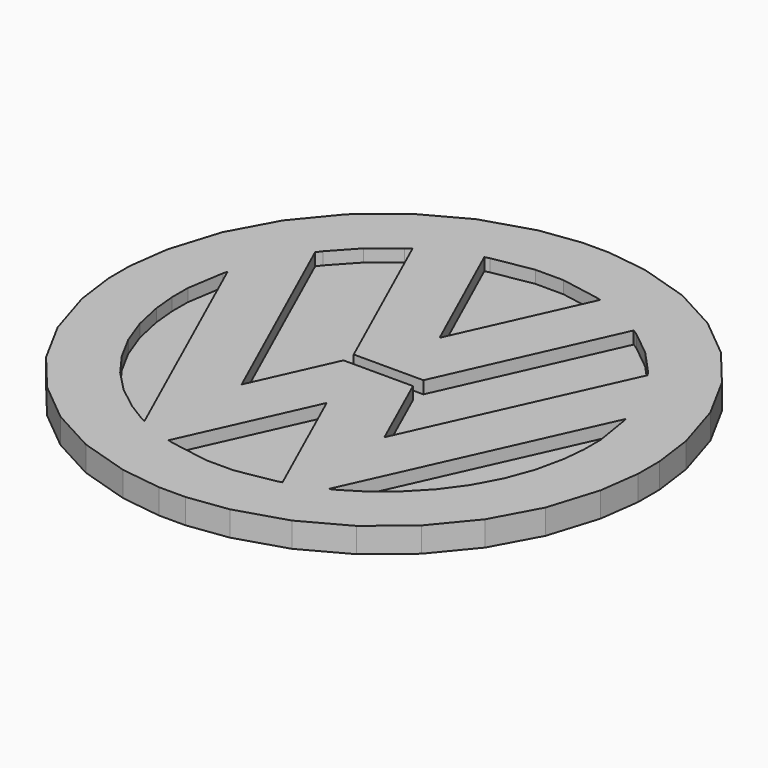
from build123d import *

# Parameters (mm, degrees)
F1_DEPTH = 4
F2_DEPTH = 2


with BuildPart() as f1:
    # F0 (on Top) → F1 (new body)
    with BuildSketch(Plane.XY):
        Polygon((-2.15507, -42.513097), (-0.012324, -42.513097), (2.128266, -42.513097), (8.551832, -41.649458), (16.529186, -39.171592), (23.748692, -35.252986), (30.037865, -30.063322), (35.227457, -23.774077), (39.146422, -16.554931), (41.624073, -8.575349), (42.487568, -2.151782), (42.487568, -0.011192), (42.487568, 2.131554), (41.624073, 8.553324), (39.146422, 16.530678), (35.227457, 23.749824), (30.037865, 30.039356), (23.748692, 35.228948), (16.529186, 39.147554), (8.551832, 41.625565), (2.128266, 42.486903), (-0.012324, 42.486903), (-2.15507, 42.486903), (-8.578637, 41.625565), (-16.556206, 39.147554), (-23.775352, 35.228948), (-30.064598, 30.039356), (-35.254262, 23.749824), (-39.172867, 16.530678), (-41.650734, 8.553324), (-42.512432, 2.131554), (-42.512432, -0.011192), (-42.512432, -2.151782), (-41.650734, -8.575349), (-39.172867, -16.554931), (-35.254262, -23.774077), (-30.064598, -30.063322), (-23.775352, -35.252986), (-16.556206, -39.171592), (-8.578637, -41.649458), align=None)
        Polygon((-32.156461, 7.865187), (-31.973198, 8.547215), (-14.778227, -29.622735), (-15.790021, -29.11779), (-18.683142, -27.324179), (-22.221601, -24.528584), (-25.344771, -21.286472), (-28.007842, -17.644702), (-30.162087, -13.646215), (-31.758743, -9.343618), (-32.751061, -4.78359), (-33.092255, -1.204202), (-33.092255, -0.011192), (-33.092255, 1.957992), align=None, mode=Mode.SUBTRACT)
        Polygon((-8.438135, -32.020684), (-9.163643, -31.812051), (-0.012324, -11.515471), (9.128933, -31.813992), (8.401628, -32.022625), (2.272361, -33.09292), (-0.012324, -33.09292), (-2.119855, -33.09292), align=None, mode=Mode.SUBTRACT)
        Polygon((15.763073, -29.11779), (14.753686, -29.622735), (31.967882, 8.475347), (32.147192, 7.798709), (33.065307, 2.112149), (33.065307, -0.011192), (33.065307, -1.204202), (32.722496, -4.78359), (31.730358, -9.343618), (30.13345, -13.646215), (27.979205, -17.644702), (25.31829, -21.286472), (22.194904, -24.528584), (18.656481, -27.324179), align=None, mode=Mode.SUBTRACT)
        Polygon((-0.012324, 11.140574), (-9.317441, 31.741192), (-8.580434, 31.957874), (-2.15507, 33.064642), (-0.012324, 33.064642), (2.311529, 33.064642), (8.543927, 31.959311), (9.28309, 31.743348), align=None, mode=Mode.SUBTRACT)
        Polygon((5.602367, 0.876019), (17.744116, 27.900922), (18.615516, 27.344664), (22.618207, 24.112757), (26.095902, 20.326748), (26.706062, 19.494157), (11.45099, -14.266185), (5.565355, -1.175095), (-5.590004, -1.175095), (-11.475638, -14.266185), (-26.707461, 19.523263), (-26.101182, 20.354058), (-22.630997, 24.126053), (-18.640272, 27.34682), (-17.770777, 27.900922), (-5.590004, 0.876019), align=None, mode=Mode.SUBTRACT)
    extrude(amount=F1_DEPTH)

    # F0 (on Top) → F2 (join)
    with BuildSketch(Plane.XY):
        Polygon((18.615516, 27.344664), (17.744116, 27.900922), (5.602367, 0.876019), (-5.590004, 0.876019), (-17.770777, 27.900922), (-18.640272, 27.34682), (-22.630997, 24.126053), (-26.101182, 20.354058), (-26.707461, 19.523263), (-11.475638, -14.266185), (-5.590004, -1.175095), (5.565355, -1.175095), (11.45099, -14.266185), (26.706062, 19.494157), (26.095902, 20.326748), (22.618207, 24.112757), align=None)
        Polygon((-14.778227, -29.622735), (-31.973198, 8.547215), (-32.156461, 7.865187), (-33.092255, 1.957992), (-33.092255, -0.011192), (-33.092255, -1.204202), (-32.751061, -4.78359), (-31.758743, -9.343618), (-30.162087, -13.646215), (-28.007842, -17.644702), (-25.344771, -21.286472), (-22.221601, -24.528584), (-18.683142, -27.324179), (-15.790021, -29.11779), align=None)
        Polygon((-0.012324, -11.515471), (-9.163643, -31.812051), (-8.438135, -32.020684), (-2.119855, -33.09292), (-0.012324, -33.09292), (2.272361, -33.09292), (8.401628, -32.022625), (9.128933, -31.813992), align=None)
        Polygon((31.967882, 8.475347), (14.753686, -29.622735), (15.763073, -29.11779), (18.656481, -27.324179), (22.194904, -24.528584), (25.31829, -21.286472), (27.979205, -17.644702), (30.13345, -13.646215), (31.730358, -9.343618), (32.722496, -4.78359), (33.065307, -1.204202), (33.065307, -0.011192), (33.065307, 2.112149), (32.147192, 7.798709), align=None)
        Polygon((-8.580434, 31.957874), (-9.317441, 31.741192), (-0.012324, 11.140574), (9.28309, 31.743348), (8.543927, 31.959311), (2.311529, 33.064642), (-0.012324, 33.064642), (-2.15507, 33.064642), align=None)
    extrude(amount=F2_DEPTH)


solid = f1.part
